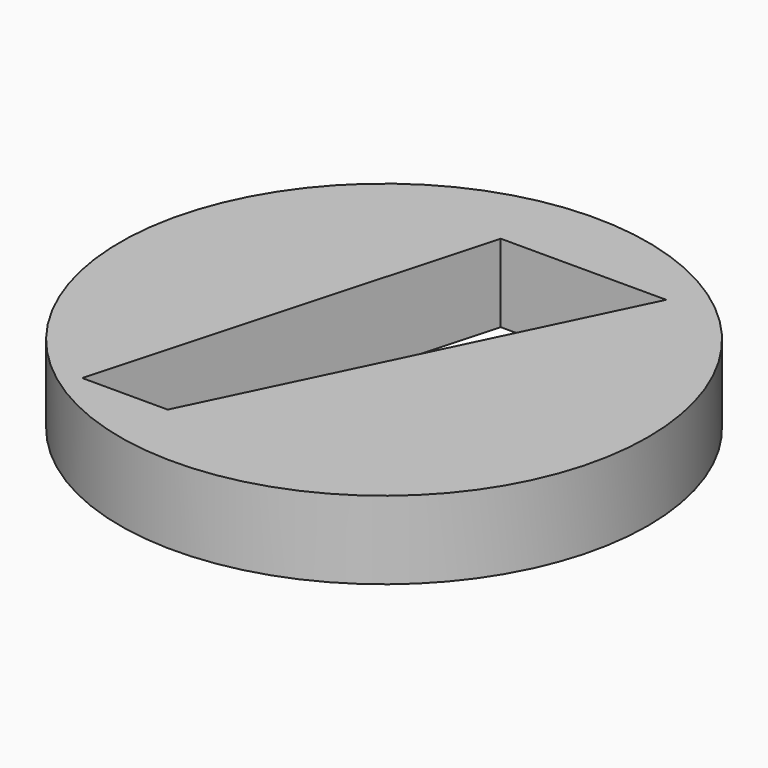
from build123d import *

# Parameters (mm, degrees)
F0_R     = 10.16
F1_DEPTH = 3
F3_DEPTH = 25.4


with BuildPart() as f1:
    # F0 (on Top) → F1 (new body)
    with BuildSketch(Plane.XY):
        Circle(F0_R)
    extrude(amount=F1_DEPTH)

    # F2 (on face) → F3 (cut)
    with BuildSketch(Plane.XY.offset(3)):
        Polygon((-1.371154, 7.326016), (-5.531608, -7.617096), (-2.235866, -7.617096), (4.999279, 7.326016), align=None)
    extrude(amount=-F3_DEPTH, mode=Mode.SUBTRACT)


solid = f1.part
